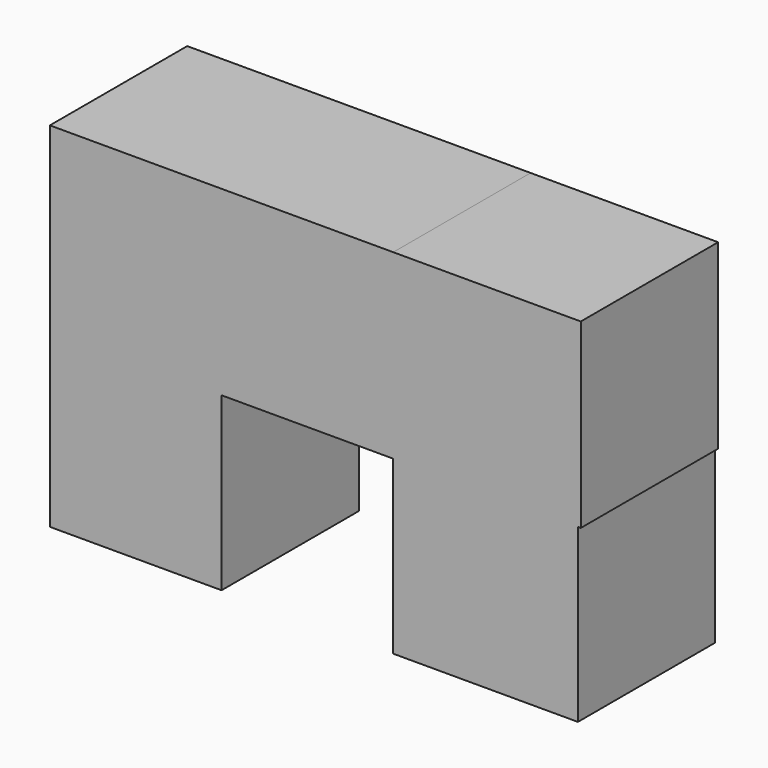
from build123d import *

# Parameters (mm, degrees)
F0_W     = 25.4
F0_H     = 26.894115
F0_H_2   = 25.4
F0_W_2   = 27.321008
F1_DEPTH = 25.4


with BuildPart() as f1:
    # F0 (on Front) → F1 (new body)
    with BuildSketch(Plane.XZ):
        with Locations((-38.1, 38.847057)):
            Rectangle(F0_W, F0_H)
        with Locations((-38.1, 12.7)):
            Rectangle(F0_W, F0_H_2)
        with Locations((-12.7, 38.847057)):
            Rectangle(F0_W, F0_H)
        Polygon((0, 52.294115), (0, 25.4), (27.321008, 25.4), (27.747899, 25.4), (27.747899, 52.294115), align=None)
        with Locations((13.660504, 12.7)):
            Rectangle(F0_W_2, F0_H_2)
    extrude(amount=F1_DEPTH)


solid = f1.part
